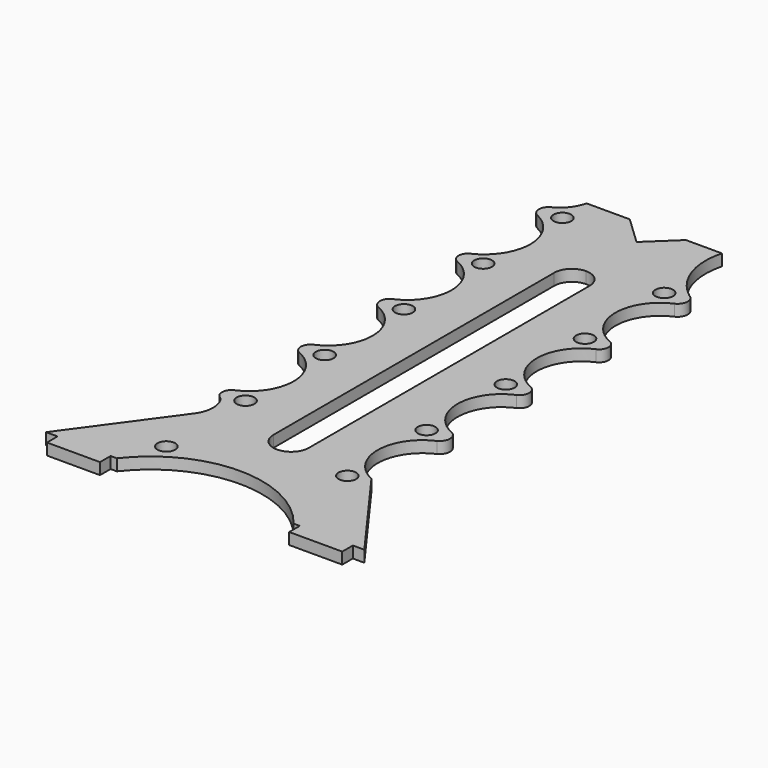
from build123d import *

# Parameters (mm, degrees)
F0_R     = 1
F1_DEPTH = 1.3


with BuildPart() as f1:
    # F0 (on Top) → F1 (new body)
    with BuildSketch(Plane.XY):
        with BuildLine():
            Line((-10, -21), (-18, -32))
            Line((-18, -32), (-16.7, -32))
            Line((-16.7, -32), (-16.7, -33.5))
            Line((-16.7, -33.5), (-10.7, -33.5))
            Line((-10.7, -33.5), (-10.7, -32))
            Line((-10.7, -32), (-10, -32))
            ThreePointArc((-10, -32), (0, -27.081915), (10, -32))
            Line((10, -32), (10.7, -32))
            Line((10.7, -32), (10.7, -33.5))
            Line((10.7, -33.5), (16.7, -33.5))
            Line((16.7, -33.5), (16.7, -32))
            Line((16.7, -32), (18, -32))
            Line((18, -32), (10, -21))
            ThreePointArc((10, -21), (7.007086, -16.377454), (10, -11.754908))
            ThreePointArc((10, -11.754908), (10.645086, -10.701424), (10, -9.647939))
            ThreePointArc((10, -9.647939), (6.999355, -5.069133), (10, -0.490326))
            ThreePointArc((10, -0.490326), (10.643733, 0.504175), (10, 1.498676))
            ThreePointArc((10, 1.498676), (7.002765, 6.112636), (10, 10.726597))
            ThreePointArc((10, 10.726597), (10.649264, 11.701711), (10, 12.676824))
            ThreePointArc((10, 12.676824), (6.994155, 17.275902), (10, 21.874981))
            ThreePointArc((10, 21.874981), (10.646317, 22.903222), (10, 23.931462))
            ThreePointArc((10, 23.931462), (7.399982, 27.548245), (7.24806, 32))
            Line((7.24806, 32), (3.172844, 32))
            Line((3.172844, 32), (0, 28.987497))
            Line((0, 28.987497), (-3.172844, 32))
            Line((-3.172844, 32), (-8.064594, 32))
            ThreePointArc((-8.064594, 32), (-8.753808, 30.534693), (-10, 29.500699))
            ThreePointArc((-10, 29.500699), (-10.647646, 28.495494), (-10, 27.49029))
            ThreePointArc((-10, 27.49029), (-7.057908, 22.800276), (-10, 18.110262))
            ThreePointArc((-10, 18.110262), (-10.647497, 17.138712), (-10, 16.167162))
            ThreePointArc((-10, 16.167162), (-7, 11.584587), (-10, 7.002011))
            ThreePointArc((-10, 7.002011), (-10.647497, 6.000383), (-10, 4.998755))
            ThreePointArc((-10, 4.998755), (-7, 0.41618), (-10, -4.166396))
            ThreePointArc((-10, -4.166396), (-10.647497, -5.163905), (-10, -6.161414))
            ThreePointArc((-10, -6.161414), (-7, -10.743989), (-10, -15.326565))
            ThreePointArc((-10, -15.326565), (-10.647481, -16.325197), (-9.989276, -17.316792))
            ThreePointArc((-9.989276, -17.316792), (-9.398741, -19.160131), (-10, -21))
        make_face()
        with Locations((-8, -27.5)):
            Circle(F0_R, mode=Mode.SUBTRACT)
        with BuildLine():
            ThreePointArc((-8, -17.3), (-8.707107, -15.592893), (-7, -16.3))
            ThreePointArc((-7, -16.3), (-7.292893, -17.007107), (-8, -17.3))
        make_face(mode=Mode.SUBTRACT)
        with Locations((-8, -5.1)):
            Circle(F0_R, mode=Mode.SUBTRACT)
        with Locations((8, -21.9)):
            Circle(F0_R, mode=Mode.SUBTRACT)
        with Locations((8, -10.7)):
            Circle(F0_R, mode=Mode.SUBTRACT)
        with Locations((-8, 6.1)):
            Circle(F0_R, mode=Mode.SUBTRACT)
        with Locations((-8, 17.3)):
            Circle(F0_R, mode=Mode.SUBTRACT)
        with Locations((-8, 28.5)):
            Circle(F0_R, mode=Mode.SUBTRACT)
        with BuildLine():
            ThreePointArc((0, -21.851003), (-1.414214, -21.265217), (-2, -19.851003))
            Line((-2, -19.851003), (-2, 19.851003))
            ThreePointArc((-2, 19.851003), (-1.414214, 21.265217), (0, 21.851003))
            ThreePointArc((0, 21.851003), (1.414214, 21.265217), (2, 19.851003))
            Line((2, 19.851003), (2, -19.851003))
            ThreePointArc((2, -19.851003), (1.414214, -21.265217), (0, -21.851003))
        make_face(mode=Mode.SUBTRACT)
        with Locations((8, 0.5)):
            Circle(F0_R, mode=Mode.SUBTRACT)
        with Locations((8, 11.7)):
            Circle(F0_R, mode=Mode.SUBTRACT)
        with Locations((8, 22.9)):
            Circle(F0_R, mode=Mode.SUBTRACT)
    extrude(amount=F1_DEPTH)


solid = f1.part
